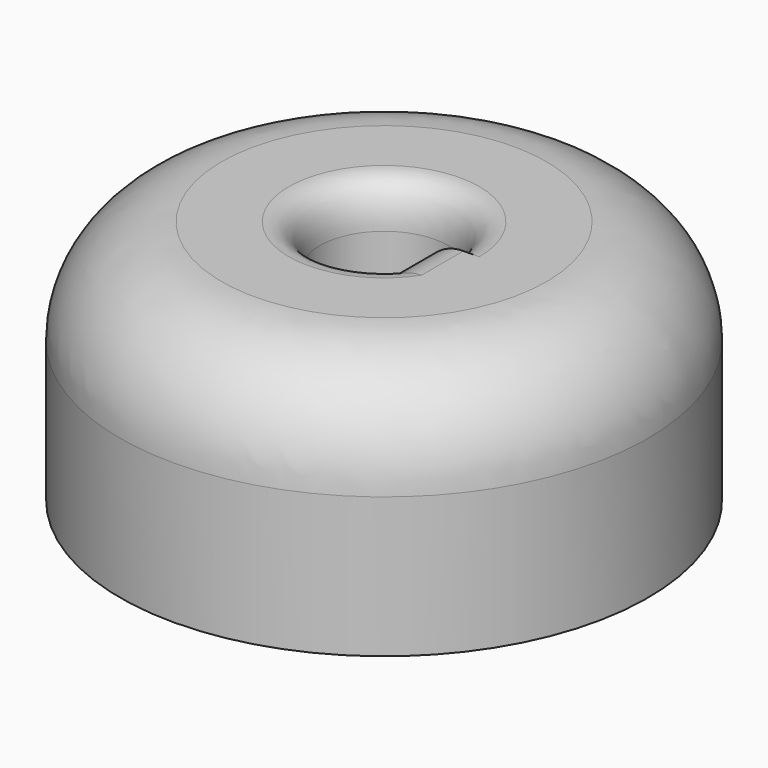
from build123d import *

# Parameters (mm, degrees)
F1_DEPTH = 25


with BuildPart() as f1:
    # F0 (on Front) → F1 (new body)
    with BuildSketch(Plane.XZ):
        with BuildLine():
            Line((11.543145, 48.471408), (-23.906698, 48.471408))
            ThreePointArc((-23.906698, 48.471408), (-38.048833, 42.613543), (-43.906698, 28.471408))
            Line((-43.906698, 28.471408), (-43.906698, -18.390211))
            ThreePointArc((-43.906698, -18.390211), (-29.262037, -53.74555), (6.093302, -68.390211))
            Line((6.093302, -68.390211), (61.543145, -68.390211))
            Line((61.543145, -68.390211), (61.543145, -1.528592))
            ThreePointArc((61.543145, -1.528592), (46.898484, 33.826747), (11.543145, 48.471408))
        make_face()
    extrude(amount=F1_DEPTH)

    # F1_face (on face) → F3 (revolve)
    with BuildSketch(Plane(origin=(9.189273, -25, -10.374323), x_dir=(1, 0, 0), z_dir=(0, -1, 0))):
        with BuildLine():
            ThreePointArc((52.353872, 8.845731), (37.709211, 44.20107), (2.353872, 58.845731))
            Line((2.353872, 58.845731), (-33.095971, 58.845731))
            ThreePointArc((-33.095971, 58.845731), (-47.238106, 52.987866), (-53.095971, 38.845731))
            Line((-53.095971, 38.845731), (-53.095971, -8.015888))
            ThreePointArc((-53.095971, -8.015888), (-38.45131, -43.371227), (-3.095971, -58.015888))
            Line((-3.095971, -58.015888), (52.353872, -58.015888))
            Line((52.353872, -58.015888), (52.353872, 8.845731))
        make_face()
    revolve(axis=Axis((-61.750002, 0, 0.122398), (0, 0, -1)))


solid = f1.part
